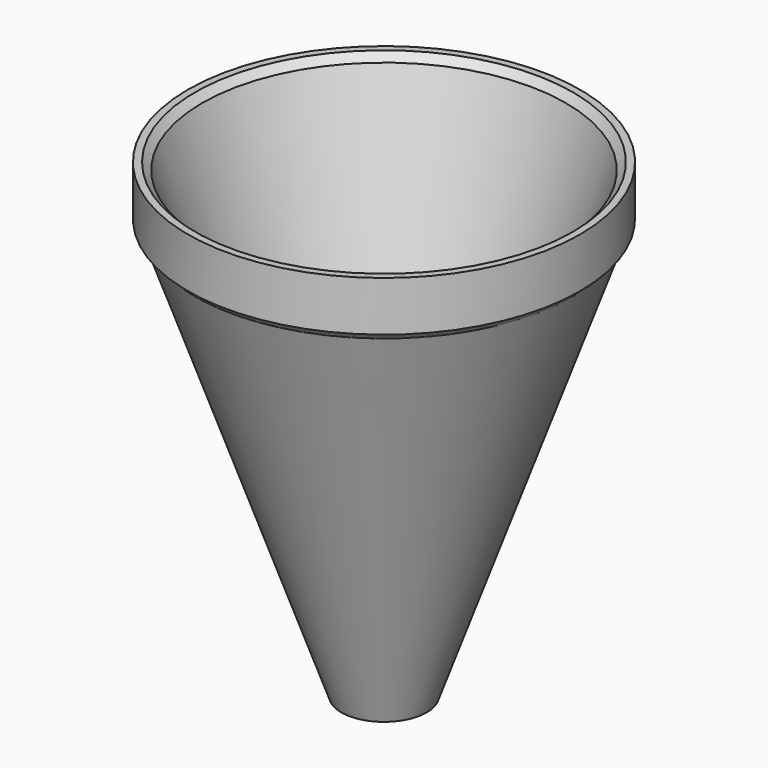
from build123d import *

# Parameters (mm, degrees)
F3_D     = 3.3
F3_DEPTH = 10
F3_TIP   = 0.9914200214


with BuildPart() as f1:
    # F0 (on Front) → F1 (revolve)
    with BuildSketch(Plane.XZ):
        Polygon((6, 0), (26.5, 58), (27.5, 59), (27.5, 66), (26.5, 66), (25.5, 65), (11, 21), (5, 21), (5, 0), align=None)
    revolve(axis=Axis((0, 0, 33), (0, 0, 1)))

    # F3
    with Locations(Plane.XY.offset(21)):
        with Locations((-8.1798387869, 0), (7.8201612131, 0)):
            Hole(F3_D / 2, depth=F3_DEPTH)
            with Locations((0, 0, -(F3_DEPTH + F3_TIP / 2))):  # 118° drill point
                Cone(0, F3_D / 2, F3_TIP, mode=Mode.SUBTRACT)


solid = f1.part
